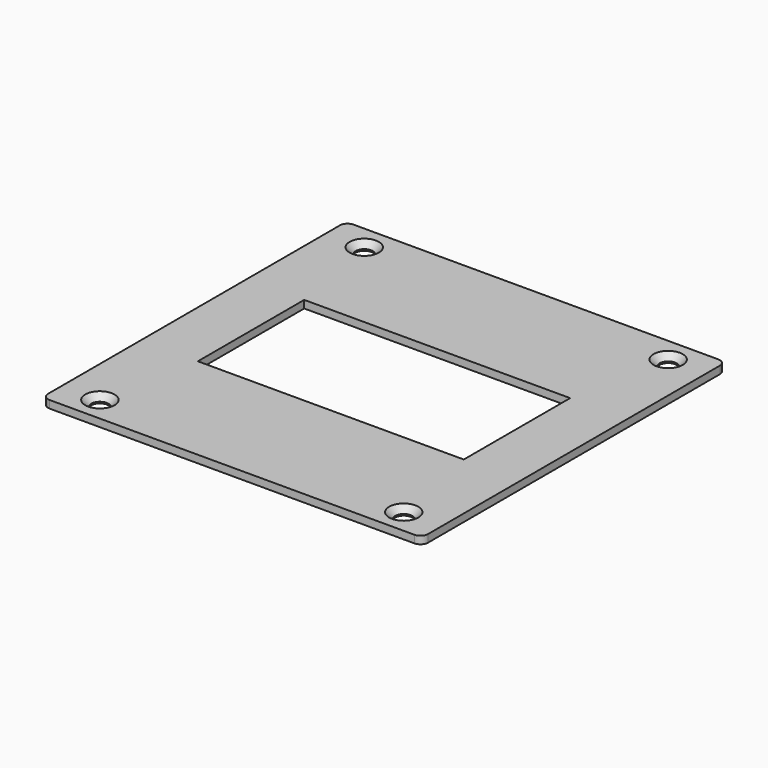
from build123d import *

# Parameters (mm, degrees)
F0_R     = 2.25
F0_W     = 70
F0_H     = 35
F1_DEPTH = 2
F2_SIZE  = 1.6


with BuildPart() as f1:
    # F0 (on Top) → F1 (new body)
    with BuildSketch(Plane.XY):
        with BuildLine():
            Line((-48, -50), (48, -50))
            ThreePointArc((48, -50), (49.414214, -49.414214), (50, -48))
            Line((50, -48), (50, 48))
            ThreePointArc((50, 48), (49.414214, 49.414214), (48, 50))
            Line((48, 50), (-48, 50))
            ThreePointArc((-48, 50), (-49.414214, 49.414214), (-50, 48))
            Line((-50, 48), (-50, -48))
            ThreePointArc((-50, -48), (-49.414214, -49.414214), (-48, -50))
        make_face()
        with Locations((-40, -43.5)):
            Circle(F0_R, mode=Mode.SUBTRACT)
        with Locations((40, -43.5)):
            Circle(F0_R, mode=Mode.SUBTRACT)
        with Locations((-40, 43.5)):
            Circle(F0_R, mode=Mode.SUBTRACT)
        Rectangle(F0_W, F0_H, mode=Mode.SUBTRACT)
        with Locations((40, 43.5)):
            Circle(F0_R, mode=Mode.SUBTRACT)
    extrude(amount=F1_DEPTH)

    # F2
    f2_edges = [f1.edges().sort_by_distance(p)[0] for p in [
        (-42.25, 43.5, 2),
        (37.75, 43.5, 2),
        (37.75, -43.5, 2),
        (-42.25, -43.5, 2),
    ]]
    chamfer(f2_edges, length=F2_SIZE)


solid = f1.part
